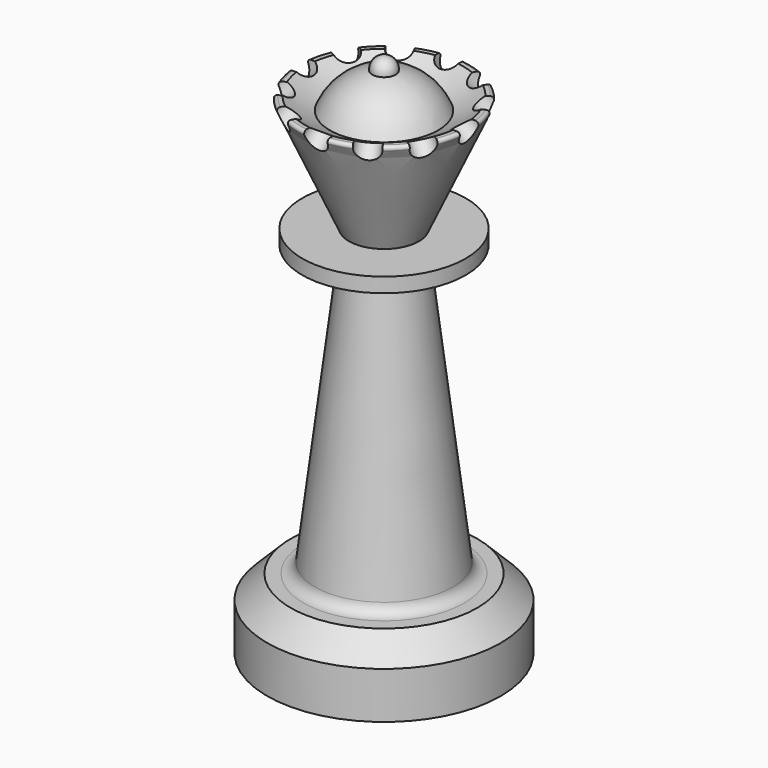
from build123d import *

# Parameters (mm, degrees)
FILLET_R           = 0.5
CYLINDER_R         = 2
CYLINDER_DEPTH     = 25
POLARPATTERN_COUNT = 12
FILLET001_R        = 1
FILLET002_R        = 2


with BuildPart() as part:
    # Sketch001 → Revolution (revolve)
    with BuildSketch(Plane.XZ):
        Polygon((0, 0), (20, 0), (20, 8), (16, 12), (12, 12), (6, 61.5), (14, 61.5), (14, 64), (6, 64), (15, 84), (0, 84), align=None)
    revolve(axis=Axis((0, 0, 0), (0, 0, 1)))

    # Sphere → Sphere (revolve, cut)
    with BuildSketch(Plane(origin=(0, 0, 105), x_dir=(1, 0, 0), z_dir=(0, -1, 0))):
        with BuildLine():
            ThreePointArc((0, -25), (25, 0), (0, 25))
            Line((0, 25), (0, -25))
        make_face()
    revolve(axis=Axis((0, 0, 105), (0, 0, 1)), mode=Mode.SUBTRACT)

    # Sphere001 → Sphere001 (revolve)
    with BuildSketch(Plane(origin=(0, 0, 78), x_dir=(1, 0, 0), z_dir=(0, -1, 0))):
        with BuildLine():
            ThreePointArc((0, -10), (10, 0), (0, 10))
            Line((0, 10), (0, -10))
        make_face()
    revolve(axis=Axis((0, 0, 78), (0, 0, 1)))

    # Sphere002 → Sphere002 (revolve)
    with BuildSketch(Plane(origin=(0, 0, 88), x_dir=(1, 0, 0), z_dir=(0, -1, 0))):
        with BuildLine():
            ThreePointArc((0, -2), (2, 0), (0, 2))
            Line((0, 2), (0, -2))
        make_face()
    revolve(axis=Axis((0, 0, 88), (0, 0, 1)))

    # Fillet
    fillet_edges = [part.edges().sort_by_distance(p)[0] for p in [
        (-15, 0, 84),
    ]]
    fillet(fillet_edges, radius=FILLET_R)

    # Cylinder → Cylinder (cut)
    with BuildSketch(Plane(origin=(0, 0, 98), x_dir=(-0.707107, 0, -0.707107), z_dir=(0.707107, 0, -0.707107))):
        Circle(CYLINDER_R)
    cylinder = extrude(amount=CYLINDER_DEPTH, mode=Mode.SUBTRACT)

    # PolarPattern: Cylinder ×12 about axis
    polarpattern_axis = Axis((0, 0, 0), (0, 0, 1))
    for i in range(1, POLARPATTERN_COUNT):
        add(cylinder.rotate(polarpattern_axis, i * 360 / POLARPATTERN_COUNT), mode=Mode.SUBTRACT)

    # Fillet001
    fillet001_edges = [part.edges().sort_by_distance(p)[0] for p in [
        (-6, 0, 61.5),
    ]]
    fillet(fillet001_edges, radius=FILLET001_R)

    # Fillet002
    fillet002_edges = [part.edges().sort_by_distance(p)[0] for p in [
        (-12, 0, 12),
    ]]
    fillet(fillet002_edges, radius=FILLET002_R)


solid = part.part
